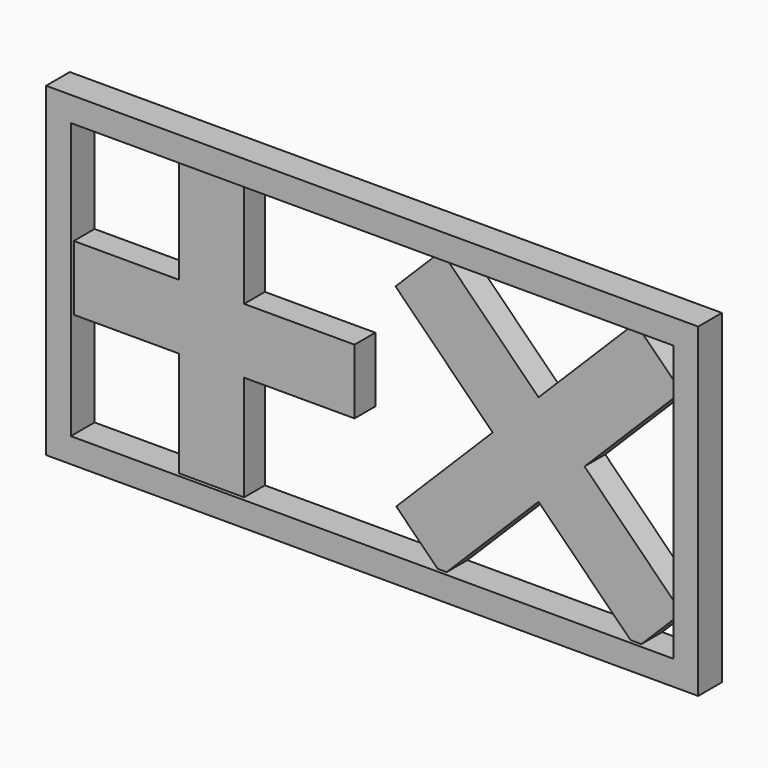
from build123d import *

# Parameters (mm, degrees)
F0_W     = 100.4062
F0_H     = 50.070776
F0_W_2   = 92.786201
F0_H_2   = 42.450776
F1_DEPTH = 4.572
F3_DEPTH = 4
F5_DEPTH = 4


with BuildPart() as f1:
    # F0 (on Front) → F1 (new body)
    with BuildSketch(Plane.XZ):
        with Locations((7.352479, -1.548582)):
            Rectangle(F0_W, F0_H)
        with Locations((7.352479, -1.548582)):
            Rectangle(F0_W_2, F0_H_2, mode=Mode.SUBTRACT)
    extrude(amount=F1_DEPTH)

    # F2 (on Front) → F3 (join)
    with BuildSketch(Plane.XZ):
        Polygon((47.517822, -23.616505), (54.588892, -16.545439), (39.591647, -1.548194), (54.532303, 13.392463), (47.461235, 20.463531), (32.520579, 5.522874), (17.569123, 20.47433), (10.498055, 13.403262), (25.449511, -1.548194), (10.608977, -16.388728), (17.680045, -23.459796), (32.520579, -8.619261), align=None)
    extrude(amount=F3_DEPTH)

    # F4 (on Front) → F5 (join)
    with BuildSketch(Plane.XZ):
        Polygon((-39.815622, 3.45103), (-39.815622, -6.54897), (-22.815622, -6.54897), (-22.815622, -23.54897), (-12.815622, -23.54897), (-12.815622, -6.54897), (4.184378, -6.54897), (4.184378, 3.45103), (-12.815622, 3.45103), (-12.815622, 20.45103), (-22.815622, 20.45103), (-22.815622, 3.45103), align=None)
    extrude(amount=F5_DEPTH)


solid = f1.part
